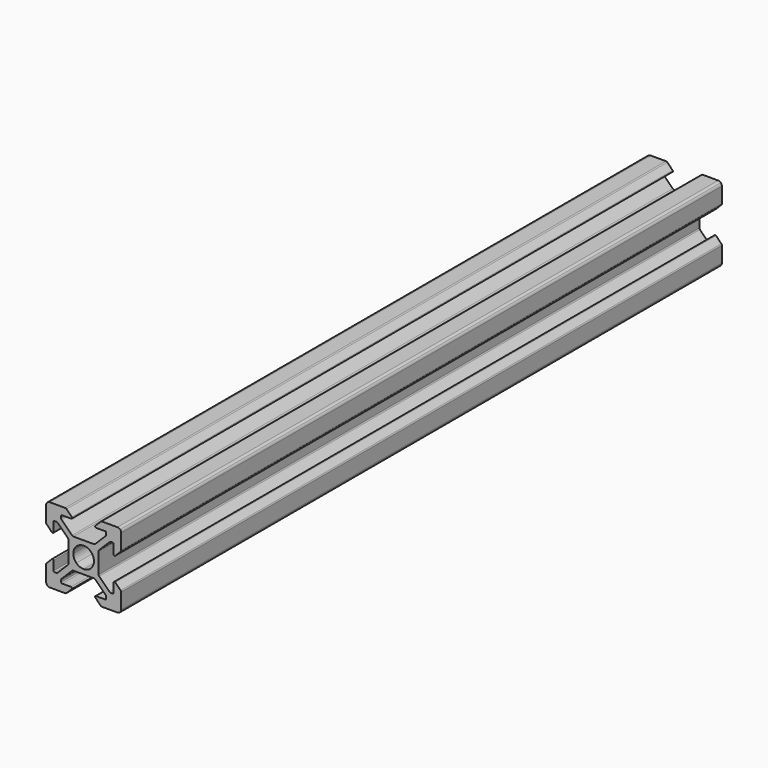
from build123d import *

# Parameters (mm, degrees)
PAD061_DEPTH               = 100
PAD061_MIRRORED008_2_DEPTH = 100
POLARPATTERN002_COUNT      = 4
BODY126_PLACEMENT_ANGLE    = 90


with BuildPart() as part:
    # Sketch256 → Pad061 (new body, symmetric)
    with BuildSketch(Plane.XY):
        with BuildLine():
            ThreePointArc((-9, 10), (-9.382683, 9.92388), (-9.707107, 9.707107))
            Line((-9.707107, 9.707107), (-1.944544, 1.944544))
            ThreePointArc((0, 2.75), (-1.052379, 2.540669), (-1.944544, 1.944544))
            Line((0, 2.75), (0, 4))
            Line((-2.732233, 4), (0, 4))
            ThreePointArc((-3.085786, 4.146447), (-2.923575, 4.03806), (-2.732233, 4))
            Line((-5.853553, 6.914214), (-3.085786, 4.146447))
            ThreePointArc((-6, 7.267767), (-5.96194, 7.076425), (-5.853553, 6.914214))
            Line((-6, 7.75), (-6, 7.267767))
            ThreePointArc((-5.75, 8), (-5.926777, 7.926777), (-6, 7.75))
            Line((-3.3, 8), (-5.75, 8))
            ThreePointArc((-3.3, 8), (-3.06903, 8.154329), (-3.123223, 8.426777))
            Line((-4.55, 9.853553), (-3.123223, 8.426777))
            ThreePointArc((-4.55, 9.853553), (-4.712212, 9.96194), (-4.903553, 10))
            Line((-9, 10), (-4.903553, 10))
        make_face()
    pad061 = extrude(amount=PAD061_DEPTH, both=True)

    # Sketch256 Mirrored008 2 → Pad061 Mirrored008 2 (add, symmetric)
    with BuildSketch(Plane(origin=(0, 0, 0), x_dir=(-1, 0, 0), z_dir=(0, 0, -1))):
        with BuildLine():
            ThreePointArc((-9, 10), (-9.382683, 9.92388), (-9.707107, 9.707107))
            Line((-9.707107, 9.707107), (-1.944544, 1.944544))
            ThreePointArc((0, 2.75), (-1.052379, 2.540669), (-1.944544, 1.944544))
            Line((0, 2.75), (0, 4))
            Line((-2.732233, 4), (0, 4))
            ThreePointArc((-3.085786, 4.146447), (-2.923575, 4.03806), (-2.732233, 4))
            Line((-5.853553, 6.914214), (-3.085786, 4.146447))
            ThreePointArc((-6, 7.267767), (-5.96194, 7.076425), (-5.853553, 6.914214))
            Line((-6, 7.75), (-6, 7.267767))
            ThreePointArc((-5.75, 8), (-5.926777, 7.926777), (-6, 7.75))
            Line((-3.3, 8), (-5.75, 8))
            ThreePointArc((-3.3, 8), (-3.06903, 8.154329), (-3.123223, 8.426777))
            Line((-4.55, 9.853553), (-3.123223, 8.426777))
            ThreePointArc((-4.55, 9.853553), (-4.712212, 9.96194), (-4.903553, 10))
            Line((-9, 10), (-4.903553, 10))
        make_face()
    pad061_mirrored008_2 = extrude(amount=-PAD061_MIRRORED008_2_DEPTH, both=True)

    # PolarPattern002: Pad061, Pad061 Mirrored008 2 ×4 about axis
    polarpattern002_axis = Axis((0, 0, 0), (0, 0, 1))
    for i in range(1, POLARPATTERN002_COUNT):
        add(pad061.rotate(polarpattern002_axis, i * 360 / POLARPATTERN002_COUNT))
        add(pad061_mirrored008_2.rotate(polarpattern002_axis, i * 360 / POLARPATTERN002_COUNT))


with BuildPart() as part_1:
    # Body126 placement: moved
    add(part.part.moved(Location((0, 30, -6))).rotate(Axis((0, 30, -6), (1, 0, 0)), BODY126_PLACEMENT_ANGLE))


solid = part_1.part
